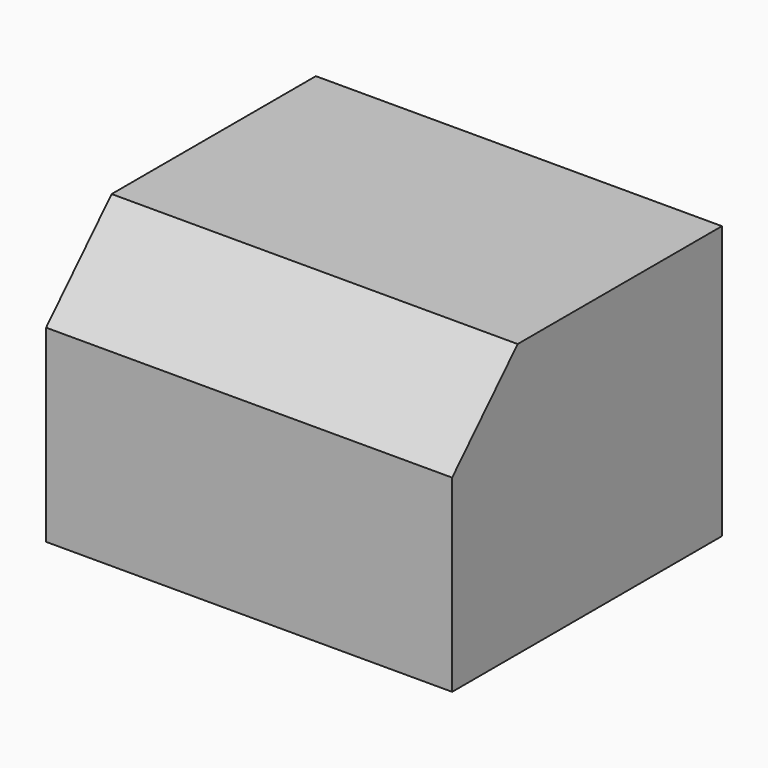
from build123d import *

# Parameters (mm, degrees)
F0_W     = 611.7065250874
F0_H     = 284.1202020645
F1_DEPTH = 508
F2_W     = 611.7065250874
F2_H     = 384.5913410187
F3_DEPTH = 127
F6_DEPTH = 535.686
F7_DEPTH = 254


with BuildPart() as f1:
    # F0 (on Front) → F1 (new body)
    with BuildSketch(Plane.XZ):
        with Locations((36.3153368235, -2.8254389763)):
            Rectangle(F0_W, F0_H)
    extrude(amount=F1_DEPTH)

    # F2 (on face) → F3 (join)
    with BuildSketch(Plane.XY.offset(139.234662056)):
        with Locations((36.3153368235, -192.2956705093)):
            Rectangle(F2_W, F2_H)
    extrude(amount=F3_DEPTH)

    # F5 (on face) → F6 (join)
    with BuildSketch(Plane(origin=(-269.5379257202, 0, 0), x_dir=(0, -1, 0), z_dir=(-1, 0, 0))):
        Polygon((508, 139.234662056), (384.5913410187, 266.234662056), (384.5913410187, 139.234662056), align=None)
    extrude(amount=-F6_DEPTH)

    # F4 (on face) → F7 (join)
    with BuildSketch(Plane.YZ.offset(342.1685993671)):
        Polygon((-384.5913410187, 139.234662056), (-384.5913410187, 266.234662056), (-508, 139.234662056), align=None)
    extrude(amount=-F7_DEPTH)


solid = f1.part
